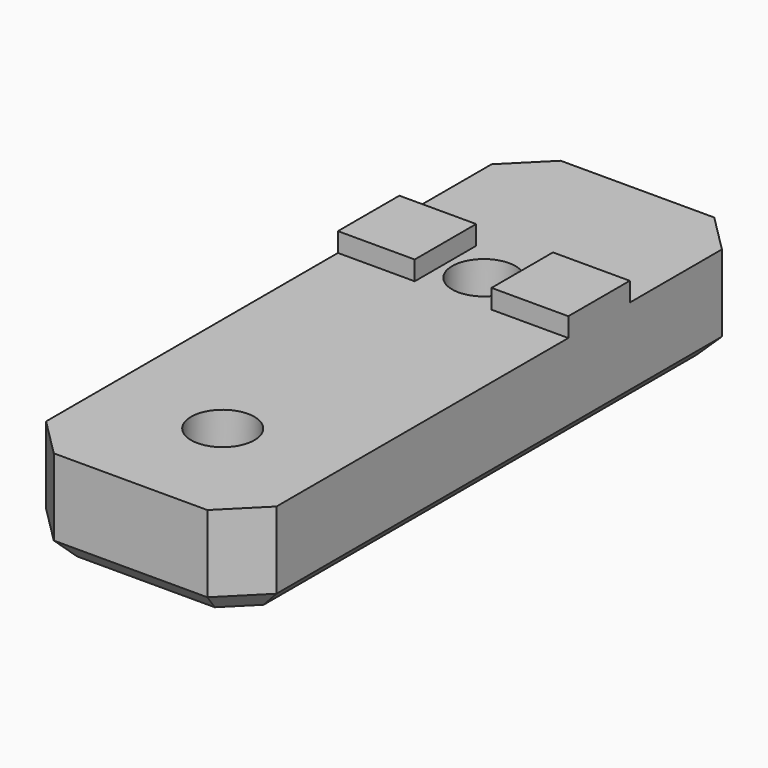
from build123d import *

# Parameters (mm, degrees)
BOX021_W           = 4
BOX021_H           = 4
BOX021_DEPTH       = 1
CYLINDER027_R      = 3.5
CYLINDER027_DEPTH  = 3
CYLINDER028_R      = 3.5
CYLINDER028_DEPTH  = 3
CYLINDER024_R      = 1.65
CYLINDER024_DEPTH  = 10
CYLINDER026_R      = 1.65
CYLINDER026_DEPTH  = 10
BOX020_W           = 12
BOX020_H           = 33
BOX020_DEPTH       = 5
CHAMFER006009_SIZE = 2
CHAMFER006010_SIZE = 1
BOX022_W           = 4
BOX022_H           = 4
BOX022_DEPTH       = 1


with BuildPart() as cube021:
    # Box021 → Box021 (new body)
    with BuildSketch(Plane(origin=(13, 75, 0), x_dir=(1, 0, 0), z_dir=(0, 0, 1))):
        with Locations((2, 2)):
            Rectangle(BOX021_W, BOX021_H)
    extrude(amount=BOX021_DEPTH)


with BuildPart() as cylinder027:
    # Cylinder027 → Cylinder027 (new body)
    with BuildSketch(Plane(origin=(19, 77, -5), x_dir=(1, 0, 0), z_dir=(0, 0, 1))):
        Circle(CYLINDER027_R)
    extrude(amount=CYLINDER027_DEPTH)


with BuildPart() as fusion023:
    # Cylinder028 → Cylinder028 (new body)
    with BuildSketch(Plane(origin=(19, 60, -5), x_dir=(1, 0, 0), z_dir=(0, 0, 1))):
        Circle(CYLINDER028_R)
    extrude(amount=CYLINDER028_DEPTH)

    # Fusion023: union Cylinder027
    add(cylinder027.part)


with BuildPart() as cylinder024:
    # Cylinder024 → Cylinder024 (new body)
    with BuildSketch(Plane(origin=(19, 60, -5), x_dir=(1, 0, 0), z_dir=(0, 0, 1))):
        Circle(CYLINDER024_R)
    extrude(amount=CYLINDER024_DEPTH)


with BuildPart() as fusion022:
    # Cylinder026 → Cylinder026 (new body)
    with BuildSketch(Plane(origin=(19, 77, -5), x_dir=(1, 0, 0), z_dir=(0, 0, 1))):
        Circle(CYLINDER026_R)
    extrude(amount=CYLINDER026_DEPTH)

    # Fusion022: union Cylinder024
    add(cylinder024.part)


with BuildPart() as chamfer006010:
    # Box020 → Box020 (new body)
    with BuildSketch(Plane(origin=(13, 54, -5), x_dir=(1, 0, 0), z_dir=(0, 0, 1))):
        with Locations((6, 16.5)):
            Rectangle(BOX020_W, BOX020_H)
    extrude(amount=BOX020_DEPTH)

    # Cut003002006013012006025002: cut Fusion022
    add(fusion022.part, mode=Mode.SUBTRACT)

    # Cut003002006013012006025003: cut Fusion023
    add(fusion023.part, mode=Mode.SUBTRACT)

    # Chamfer006009
    chamfer006009_edges = [chamfer006010.edges().sort_by_distance(p)[0] for p in [
        (13, 54, -2.5),
        (13, 87, -2.5),
        (25, 54, -2.5),
        (25, 87, -2.5),
    ]]
    chamfer(chamfer006009_edges, length=CHAMFER006009_SIZE)

    # Chamfer006010
    chamfer006010_edges = [chamfer006010.edges().sort_by_distance(p)[0] for p in [
        (13, 70.5, -5),
        (14, 55, -5),
        (14, 86, -5),
        (19, 54, -5),
        (19, 87, -5),
        (24, 55, -5),
        (24, 86, -5),
        (25, 70.5, -5),
    ]]
    chamfer(chamfer006010_edges, length=CHAMFER006010_SIZE)


with BuildPart() as obj1:
    # Box022 → Box022 (new body)
    with BuildSketch(Plane(origin=(21, 75, 0), x_dir=(1, 0, 0), z_dir=(0, 0, 1))):
        with Locations((2, 2)):
            Rectangle(BOX022_W, BOX022_H)
    extrude(amount=BOX022_DEPTH)

    # Fusion024: union Cube021, Chamfer006010
    add(cube021.part)
    add(chamfer006010.part)


solid = obj1.part
